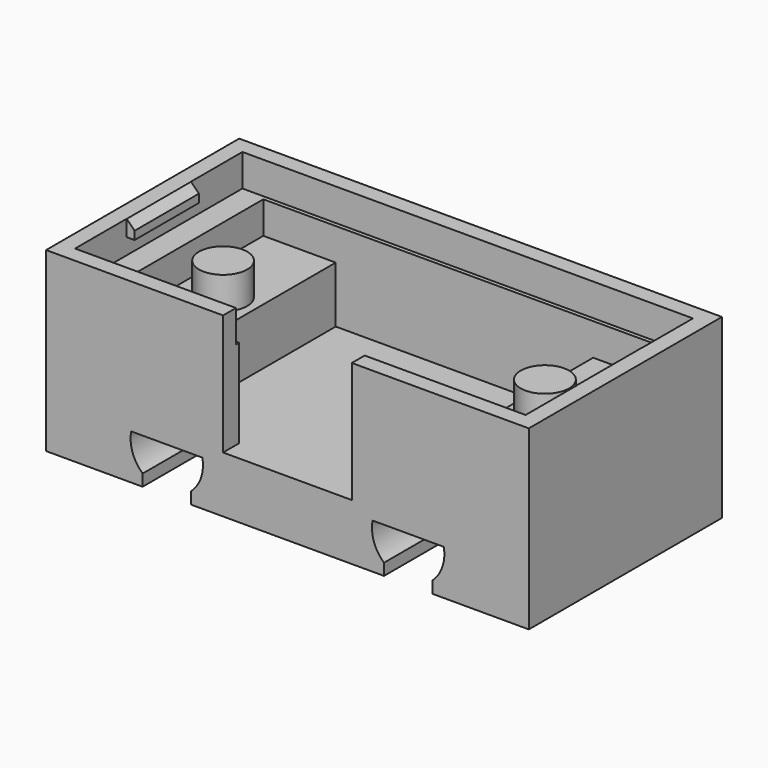
from build123d import *

# Parameters (mm, degrees)
SKETCH_W            = 30
SKETCH_H            = 15
PAD_DEPTH           = 3.5
SKETCH001_W         = 30
SKETCH001_H         = 15
SKETCH001_W_2       = 25
SKETCH001_H_2       = 12.5
PAD001_DEPTH        = 7.5
POCKET_DEPTH        = 15.001
LINEARPATTERN_COUNT = 2
LINEARPATTERN_PITCH = 15
SKETCH003_W         = 8
SKETCH003_H         = 7.5
POCKET001_DEPTH     = 1.25
SKETCH004_W         = 4.5
SKETCH004_H         = 12.5
PAD002_DEPTH        = 3.5
SKETCH005_R         = 1.5
PAD003_DEPTH        = 2
SKETCH006_W         = 28
SKETCH006_H         = 13
POCKET002_DEPTH     = 2
SKETCH007_W         = 0.5
SKETCH007_H         = 5
PAD004_DEPTH        = 1
CHAMFER_SIZE        = 0.49


with BuildPart() as part:
    # Sketch → Pad (new body)
    with BuildSketch(Plane.XY):
        Rectangle(SKETCH_W, SKETCH_H)
    extrude(amount=PAD_DEPTH)

    # Sketch001 → Pad001 (new body)
    with BuildSketch(Plane.XY.offset(3.5)):
        Rectangle(SKETCH001_W, SKETCH001_H)
        Rectangle(SKETCH001_W_2, SKETCH001_H_2, mode=Mode.SUBTRACT)
    extrude(amount=PAD001_DEPTH)

    # Sketch002 → Pocket (cut, through all)
    with BuildSketch(Plane.XZ.offset(7.5)):
        with BuildLine():
            Line((-9, 0.722949), (-9, 0))
            Line((-9, 0), (-6, 0))
            Line((-6, 0), (-6, 0.722949))
            ThreePointArc((-6, 0.722949), (-5.37226, 1.668412), (-5.285841, 2.8))
            Line((-9.714159, 2.8), (-5.285841, 2.8))
            ThreePointArc((-9.714159, 2.8), (-9.62774, 1.668412), (-9, 0.722949))
        make_face()
    pocket = extrude(amount=-POCKET_DEPTH, mode=Mode.SUBTRACT)

    # LinearPattern: Pocket ×2
    with Locations(*[(i * LINEARPATTERN_PITCH, 0, 0) for i in range(1, LINEARPATTERN_COUNT)]):
        add(pocket, mode=Mode.SUBTRACT)

    # Sketch003 → Pocket001 (cut)
    with BuildSketch(Plane.XZ.offset(7.5)):
        with Locations((0, 7.25)):
            Rectangle(SKETCH003_W, SKETCH003_H)
    extrude(amount=-POCKET001_DEPTH, mode=Mode.SUBTRACT)

    # Sketch004 → Pad002 (new body)
    with BuildSketch(Plane.XY.offset(3.5)):
        with Locations((-10.25, 0)):
            Rectangle(SKETCH004_W, SKETCH004_H)
        with Locations((10.25, 0)):
            Rectangle(SKETCH004_W, SKETCH004_H)
    extrude(amount=PAD002_DEPTH)

    # Sketch005 → Pad003 (new body)
    with BuildSketch(Plane.XY.offset(7)):
        with Locations((-10, 0)):
            Circle(SKETCH005_R)
        with Locations((10, 0)):
            Circle(SKETCH005_R)
    extrude(amount=PAD003_DEPTH)

    # Sketch006 → Pocket002 (cut)
    with BuildSketch(Plane.XY.offset(11)):
        Rectangle(SKETCH006_W, SKETCH006_H)
    extrude(amount=-POCKET002_DEPTH, mode=Mode.SUBTRACT)

    # Sketch007 → Pad004 (new body)
    with BuildSketch(Plane.XY.offset(11)):
        with Locations((-13.75, 0)):
            Rectangle(SKETCH007_W, SKETCH007_H)
        with Locations((13.75, 0)):
            Rectangle(SKETCH007_W, SKETCH007_H)
    extrude(amount=-PAD004_DEPTH)

    # Chamfer
    chamfer_edges = [part.edges().sort_by_distance(p)[0] for p in [
        (-13.5, 0, 11),
        (13.5, 0, 11),
    ]]
    chamfer(chamfer_edges, length=CHAMFER_SIZE)


solid = part.part
